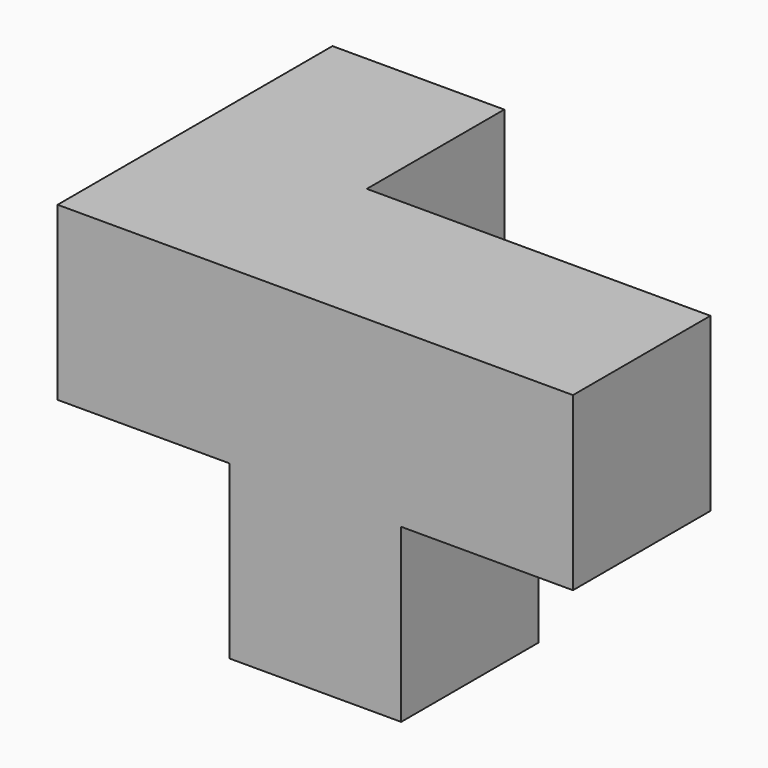
from build123d import *

# Parameters (mm, degrees)
F0_W     = 25.4
F0_H     = 25.4
F1_DEPTH = 25.4
F2_DEPTH = 25.4


with BuildPart() as f1:
    # F0 (on Front) → F1 (new body)
    with BuildSketch(Plane.XZ):
        with Locations((-0.025486, 12.7)):
            Rectangle(F0_W, F0_H)
        with Locations((25.374514, 12.7)):
            Rectangle(F0_W, F0_H)
        with Locations((-0.025486, -12.7)):
            Rectangle(F0_W, F0_H)
    extrude(amount=F1_DEPTH)

    # F0 (on Front) → F2 (join, symmetric)
    with BuildSketch(Plane.XZ):
        with Locations((-25.425486, 12.7)):
            Rectangle(F0_W, F0_H)
    extrude(amount=F2_DEPTH, both=True)


solid = f1.part
